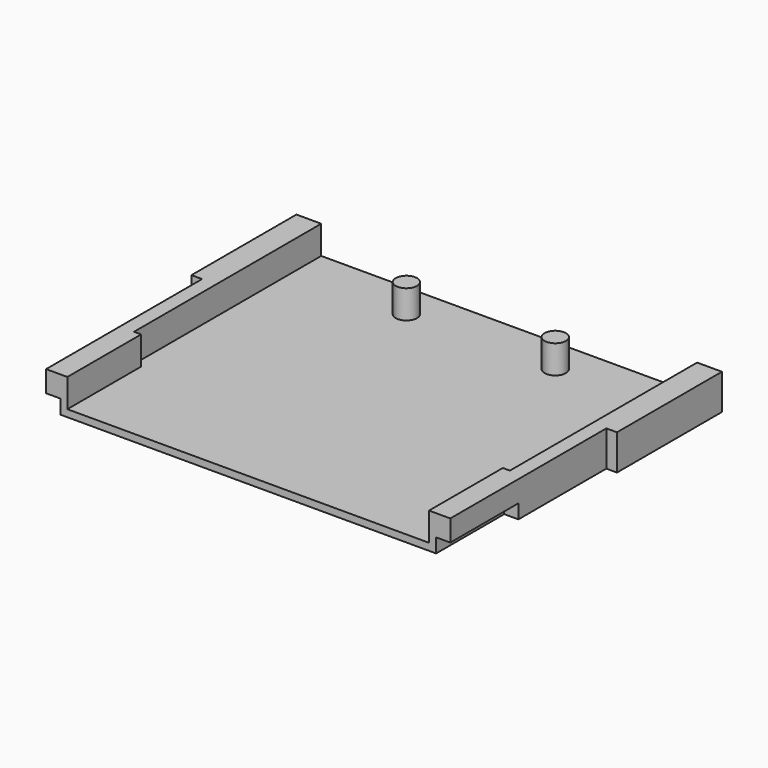
from build123d import *

# Parameters (mm, degrees)
PAD_DEPTH       = 5
SKETCH001_W     = 2
SKETCH001_H     = 12
POCKET_DEPTH    = 2
POCKET001_DEPTH = 4
SKETCH003_R     = 1.5
PAD001_DEPTH    = 4


with BuildPart() as part:
    # Sketch → Pad (new body)
    with BuildSketch(Plane.XY):
        Polygon((-28.5, 0), (28.5, 0), (28.5, 27.5), (30, 27.5), (30, 46), (-30, 46), (-30, 27.5), (-28.5, 27.5), align=None)
    extrude(amount=PAD_DEPTH)

    # Sketch001 (on Face9 of Pad) → Pocket (cut)
    with BuildSketch(Plane(origin=(0, 0, 0), x_dir=(1, 0, 0), z_dir=(0, 0, -1))):
        with Locations((-27.5, -6)):
            Rectangle(SKETCH001_W, SKETCH001_H)
        with Locations((27.5, -6)):
            Rectangle(SKETCH001_W, SKETCH001_H)
    extrude(amount=-POCKET_DEPTH, mode=Mode.SUBTRACT)

    # Sketch002 (on Face8 of Pocket) → Pocket001 (cut)
    with BuildSketch(Plane.XY.offset(5)):
        Polygon((-25.5, 0), (25.5, 0), (25.5, 13), (26.5, 13), (26.5, 46), (-26.5, 46), (-26.5, 13), (-25.5, 13), align=None)
    extrude(amount=-POCKET001_DEPTH, mode=Mode.SUBTRACT)

    # Sketch003 (on Face10 of Pocket001) → Pad001 (join)
    with BuildSketch(Plane.XY.offset(1)):
        with Locations((-10.5, 41)):
            Circle(SKETCH003_R)
        with Locations((10.5, 41)):
            Circle(SKETCH003_R)
    extrude(amount=PAD001_DEPTH)


solid = part.part
